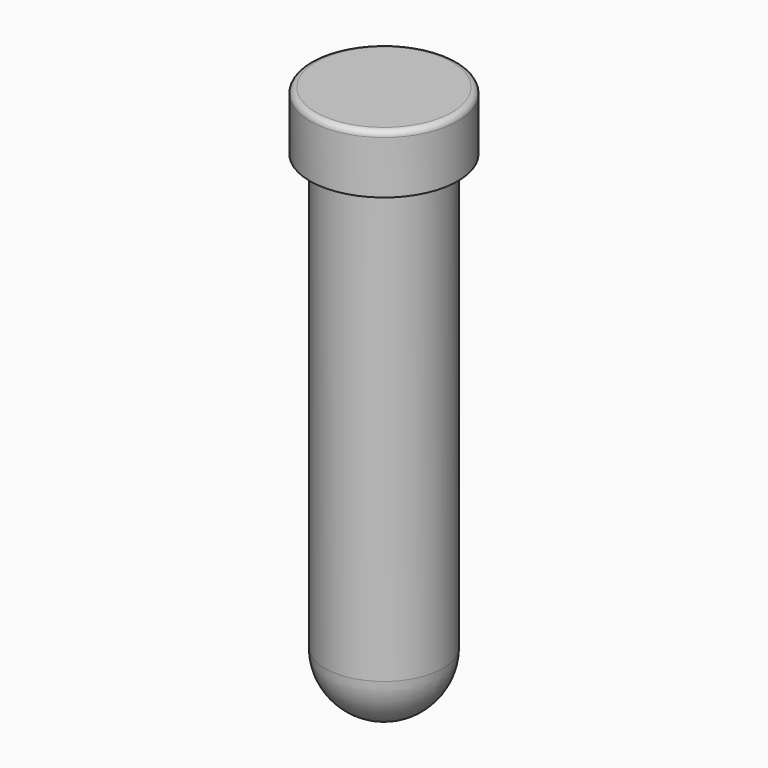
from build123d import *

# Parameters (mm, degrees)
F4_R = 0.5


with BuildPart() as f1:
    # F0 (on Front) → F1 (revolve)
    with BuildSketch(Plane.XZ):
        with BuildLine():
            Line((-5.5, -0.472584), (-5, -0.472584))
            Line((-5, -0.472584), (-5, -37.470958))
            ThreePointArc((-5, -37.470958), (-3.535534, -41.006492), (0, -42.470958))
            Line((0, -42.470958), (0, -41.970958))
            ThreePointArc((0, -41.970958), (-3.181981, -40.652939), (-4.5, -37.470958))
            Line((-4.5, -37.470958), (-4.5, 2.504139))
            Line((-4.5, 2.504139), (-5.5, 2.5))
            Line((-5.5, 2.5), (-5.5, 0))
            Line((-5.5, 0), (-5.5, -0.472584))
        make_face()
    revolve(axis=Axis((0, 0, -13.258269), (0, 0, 1)))


with BuildPart() as f3:
    # F2 (on Front) → F3 (revolve)
    with BuildSketch(Plane.XZ):
        Polygon((0, 2.5), (0, 4.5), (-6.3, 4.5), (-6.3, -0.5), (-5.5, -0.5), (-5.5, 2.5), align=None)
    revolve(axis=Axis((0, 0, 2.100606), (0, 0, 1)))

    # F4
    f4_edges = [f3.edges().sort_by_distance(p)[0] for p in [
        (6.3, 0, 4.5),
    ]]
    fillet(f4_edges, radius=F4_R)


solid = Compound([f1.part, f3.part])
